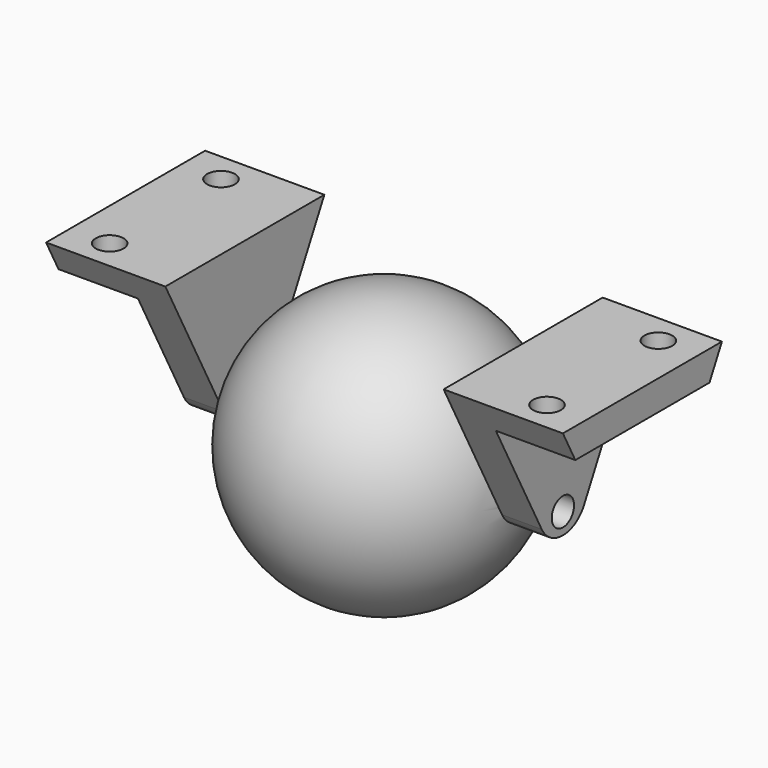
from build123d import *

# Parameters (mm, degrees)
F3_R          = 1.778
F4_DEPTH      = 25.4
F4_DEPTH_BACK = 25.4
F0_R          = 1.778
F5_DEPTH      = 5.08
F8_DEPTH      = 10.16
F9_R          = 1.778
F10_DEPTH     = 25.4
F11_R         = 3.81


with BuildPart() as f2:
    # F1 (on Right) → F2 (revolve)
    with BuildSketch(Plane.YZ):
        with BuildLine():
            Line((12.7, -34.417), (12.7, -0.127))
            ThreePointArc((12.7, -0.127), (-4.445, -17.272), (12.7, -34.417))
        make_face()
    revolve(axis=Axis((0, 12.7, -17.272), (0, 0, -1)))

    # F3 (on Right) → F4 (cut, two sides)
    with BuildSketch(Plane.YZ) as f4_sk:
        with Locations((12.7, -17.272)):
            Circle(F3_R)
    extrude(amount=-F4_DEPTH, mode=Mode.SUBTRACT)
    extrude(f4_sk.sketch, amount=F4_DEPTH_BACK, mode=Mode.SUBTRACT)


with BuildPart() as f5:
    # F0 (on Right) → F5 (new body)
    with BuildSketch(Plane.YZ):
        Polygon((25.4, 0), (0, 0), (12.7, -24.3806373328), align=None)
        with Locations((12.7, -17.272)):
            Circle(F0_R, mode=Mode.SUBTRACT)
    extrude(amount=F5_DEPTH)


with BuildPart() as f5_1:
    # F6: moved
    add(f5.part.moved(Location((17.78, 0, 0))))

    # F7 (on face) → F8 (join)
    with BuildSketch(Plane.YZ.offset(22.86)):
        Polygon((25.4, 0), (0, 0), (1.9846486923, -3.81), (23.4153513077, -3.81), align=None)
    extrude(amount=F8_DEPTH)

    # F9 (on face) → F10 (cut)
    with BuildSketch(Plane.XY):
        with Locations((27.94, 21.59)):
            Circle(F9_R)
        with Locations((27.94, 3.81)):
            Circle(F9_R)
    extrude(amount=-F10_DEPTH, mode=Mode.SUBTRACT)

    # F11
    f11_edges = [f5_1.edges().sort_by_distance(p)[0] for p in [
        (20.32, 12.7, -24.380637),
    ]]
    fillet(f11_edges, radius=F11_R)


with BuildPart() as f12_1:
    # F12: instance of F5
    add(f5_1.part.mirror(Plane.YZ))


solid = Compound([f2.part, f5_1.part, f12_1.part])
